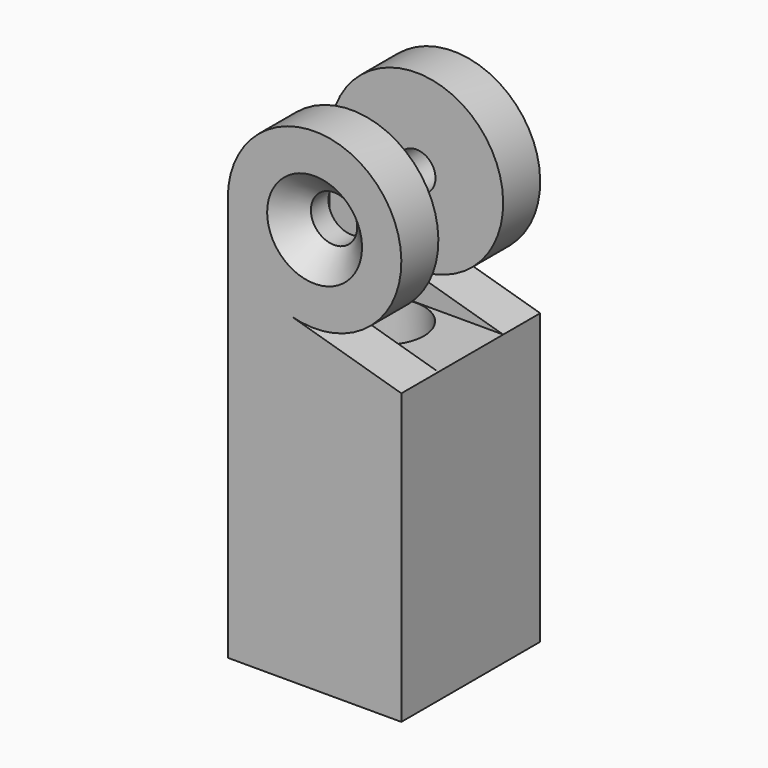
from build123d import *

# Parameters (mm, degrees)
F1_DEPTH       = 25
F3_D           = 3.7
F3_CBORE_D     = 6.9
F3_CBORE_DEPTH = 4
F5_DEPTH       = 4
F7_DEPTH       = 4
F9_D           = 4
F9_DEPTH       = 4
F9_CSINK_D     = 8.2
F9_CSINK_ANGLE = 90
F11_D          = 3.3
F11_DEPTH      = 4


with BuildPart() as f1:
    # F0 (on Top) → F1 (new body)
    with BuildSketch(Plane.XY):
        Polygon((7.5, -7.5), (7.5, 0), (7.5, 7.5), (-7.5, 7.5), (-7.5, -7.5), align=None)
    extrude(amount=F1_DEPTH)

    # F3 (through all)
    with Locations(Plane.XY.offset(25)):
        with Locations((0, 0)):
            CounterBoreHole(F3_D / 2, F3_CBORE_D / 2, F3_CBORE_DEPTH)

    # F4 (on face) → F5 (join)
    with BuildSketch(Plane(origin=(0, 7.5, 0), x_dir=(-1, 0, 0), z_dir=(0, 1, 0))):
        with BuildLine():
            Line((-7.5, 25), (7.5, 25))
            Line((7.5, 25), (7.5, 35))
            ThreePointArc((7.5, 35), (6, 30.5), (2.1, 27.8))
            Line((2.1, 27.8), (-7.5, 25))
        make_face()
        with BuildLine():
            ThreePointArc((2.1, 27.8), (6, 30.5), (7.5, 35))
            ThreePointArc((7.5, 35), (-6, 39.5), (2.1, 27.8))
        make_face()
    extrude(amount=-F5_DEPTH)

    # F6 (on face) → F7 (join)
    with BuildSketch(Plane.XZ.offset(7.5)):
        with BuildLine():
            ThreePointArc((7.5, 35), (0, 42.5), (-7.5, 35))
            ThreePointArc((-7.5, 35), (-6, 30.5), (-2.1, 27.8))
            ThreePointArc((-2.1, 27.8), (4.5, 29), (7.5, 35))
        make_face()
        with BuildLine():
            Line((-7.5, 35), (-7.5, 25))
            Line((-7.5, 25), (7.5, 25))
            Line((7.5, 25), (-2.1, 27.8))
            ThreePointArc((-2.1, 27.8), (-6, 30.5), (-7.5, 35))
        make_face()
    extrude(amount=-F7_DEPTH)

    # F9
    with Locations(Plane.XZ.offset(7.5)):
        with Locations((0, 35)):
            CounterSinkHole(F9_D / 2, F9_CSINK_D / 2, depth=F9_DEPTH, counter_sink_angle=F9_CSINK_ANGLE)

    # F11
    with Locations(Plane(origin=(0, 7.5, 0), x_dir=(-1, 0, 0), z_dir=(0, 1, 0))):
        with Locations((0, 35)):
            Hole(F11_D / 2, depth=F11_DEPTH)


solid = f1.part
